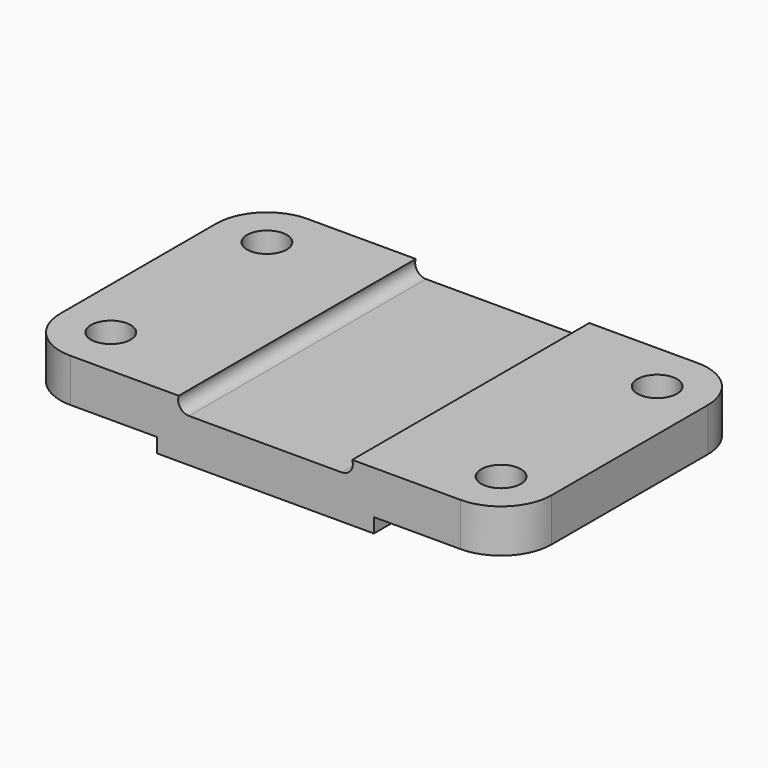
from build123d import *

# Parameters (mm, degrees)
F1_DEPTH = 82
F3_DEPTH = 25
F4_R     = 5.5
F5_DEPTH = 25


with BuildPart() as f1:
    # F0 (on Front) → F1 (new body)
    with BuildSketch(Plane.XZ):
        with BuildLine():
            Line((21.171573, 0), (0, 0))
            Line((0, 0), (-21.171573, 0))
            ThreePointArc((-21.171573, 0), (-23.621063, 1.267949), (-24, 4))
            Line((-24, 4), (-68, 4))
            Line((-68, 4), (-68, -8))
            Line((-68, -8), (-30, -8))
            Line((-30, -8), (-30, -12))
            Line((-30, -12), (0, -12))
            Line((0, -12), (30, -12))
            Line((30, -12), (30, -8))
            Line((30, -8), (68, -8))
            Line((68, -8), (68, 4))
            Line((68, 4), (24, 4))
            ThreePointArc((24, 4), (23.621063, 1.267949), (21.171573, 0))
        make_face()
    extrude(amount=F1_DEPTH)

    # F2 (on face) → F3 (cut)
    with BuildSketch(Plane.XY.offset(4)):
        with BuildLine():
            ThreePointArc((-68, -14), (-63.899495, -4.100505), (-54, 0))
            Line((-54, 0), (-68, 0))
            Line((-68, 0), (-68, -14))
        make_face()
        with BuildLine():
            Line((-68, -82), (-54, -82))
            ThreePointArc((-54, -82), (-63.899495, -77.899495), (-68, -68))
            Line((-68, -68), (-68, -82))
        make_face()
        with BuildLine():
            Line((68, 0), (54, 0))
            ThreePointArc((54, 0), (63.899495, -4.100505), (68, -14))
            Line((68, -14), (68, 0))
        make_face()
        with BuildLine():
            ThreePointArc((68, -68), (63.899495, -77.899495), (54, -82))
            Line((54, -82), (68, -82))
            Line((68, -82), (68, -68))
        make_face()
    extrude(amount=-F3_DEPTH, mode=Mode.SUBTRACT)

    # F4 (on face) → F5 (cut)
    with BuildSketch(Plane.XY.offset(4)):
        with Locations((-54, -14)):
            Circle(F4_R)
        with Locations((-54, -68)):
            Circle(F4_R)
        with Locations((54, -14)):
            Circle(F4_R)
        with Locations((54, -68)):
            Circle(F4_R)
    extrude(amount=-F5_DEPTH, mode=Mode.SUBTRACT)


solid = f1.part
